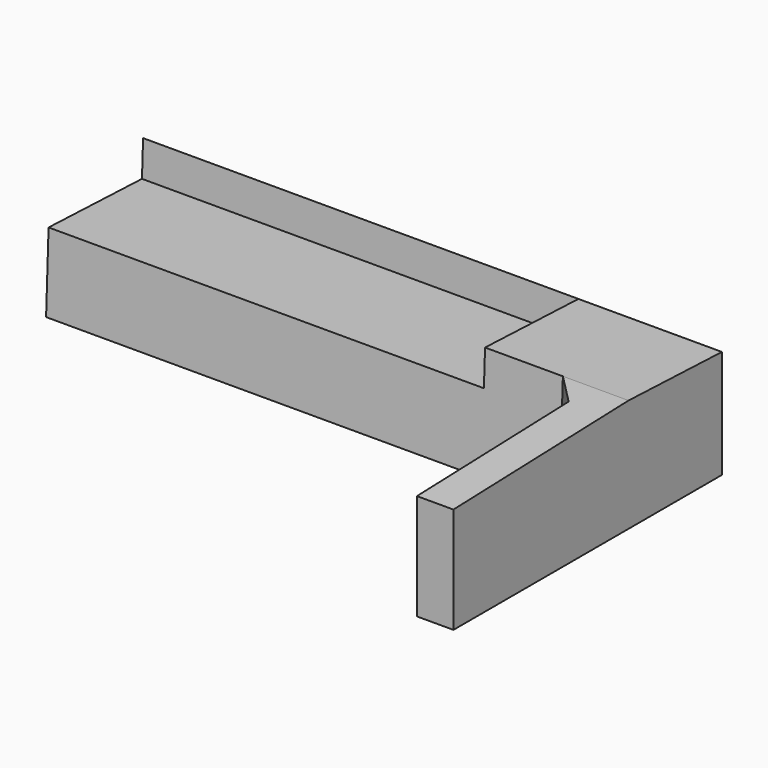
from build123d import *

# Parameters (mm, degrees)
F2_DEPTH = 6045.18984
F4_DEPTH = 1270.0014057507
F5_W     = 4546.591872
F5_H     = 1220.1749701678
F6_DEPTH = 368.808


with BuildPart() as f2:
    # F0 (on Right) → F2 (new body)
    with BuildSketch(Plane.YZ):
        Polygon((-3505.2, 1484.376), (0, 1484.376), (0, 2615.184), (-1219.2, 2663.952), (-3505.2, 2590.8), align=None)
    extrude(amount=-F2_DEPTH)

    # F3 (on face) → F4 (cut, through all)
    with BuildSketch(Plane(origin=(0, 104.4402555911, 2611.0063897764), x_dir=(1, 0, 0), z_dir=(0, 0.0399680383, 0.9992009587))):
        Polygon((-685.8, -1324.6987445692), (-6045.18984, -1324.6987445692), (-6045.18984, -3610.6987445692), (-381, -3610.6987445692), (-381, -1629.4987445692), align=None)
    extrude(amount=-F4_DEPTH, mode=Mode.SUBTRACT)

    # F5 (on face) → F6 (cut)
    with BuildSketch(Plane(origin=(0, 104.4402555911, 2611.0063897764), x_dir=(1, 0, 0), z_dir=(0, 0.0399680383, 0.9992009587))):
        with Locations((-3771.893904, -714.6112594853)):
            Rectangle(F5_W, F5_H)
    extrude(amount=-F6_DEPTH, mode=Mode.SUBTRACT)


solid = f2.part
